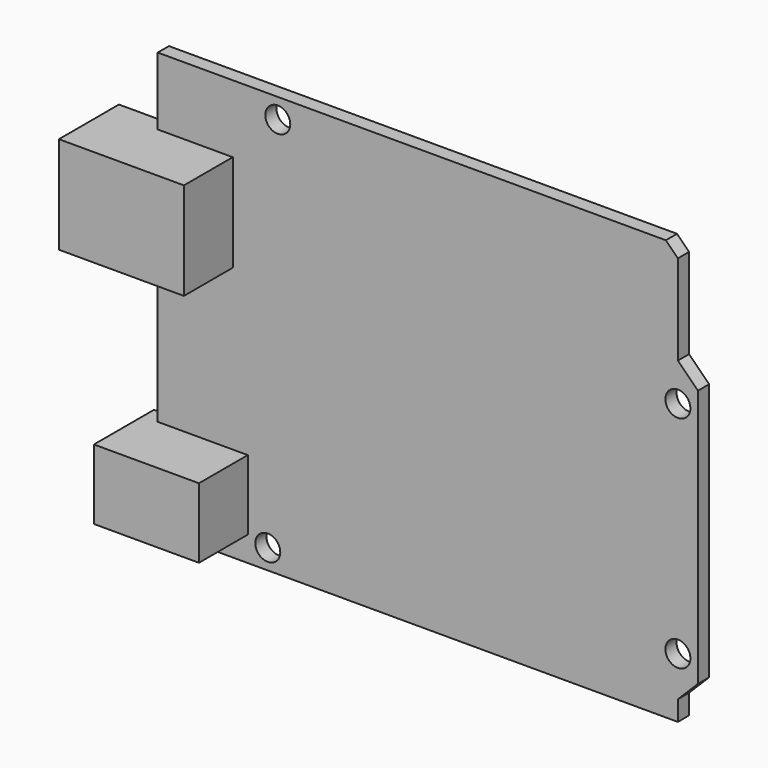
from build123d import *

# Parameters (mm, degrees)
F1_W     = 15.875
F1_H     = 12.356966
F1_W_2   = 13.335
F1_H_2   = 8.89
F2_DEPTH = 9.525
F0_R     = 1.5875
F3_DEPTH = 1.778


with BuildPart() as f2:
    # F1 (on Front) → F2 (new body)
    with BuildSketch(Plane.XZ):
        with Locations((-49.342244, -4.035163)):
            Rectangle(F1_W, F1_H)
        with Locations((-46.167244, -34.978646)):
            Rectangle(F1_W_2, F1_H_2)
    extrude(amount=F2_DEPTH)


with BuildPart() as f3:
    # F0 (on Front) → F3 (new body)
    with BuildSketch(Plane.XZ):
        Polygon((13.586256, 10.741354), (-50.929744, 10.741354), (-50.929744, -42.598646), (15.110256, -42.598646), (15.110256, -40.058646), (17.650256, -37.518646), (17.650256, -4.752646), (15.110256, -2.212646), (15.110256, 9.217354), align=None)
        with Locations((-36.959744, -40.058646)):
            Circle(F0_R, mode=Mode.SUBTRACT)
        with Locations((15.110256, -34.978646)):
            Circle(F0_R, mode=Mode.SUBTRACT)
        with Locations((-35.689744, 8.201354)):
            Circle(F0_R, mode=Mode.SUBTRACT)
        with Locations((15.110256, -7.038646)):
            Circle(F0_R, mode=Mode.SUBTRACT)
    extrude(amount=F3_DEPTH)


solid = Compound([f2.part, f3.part])
